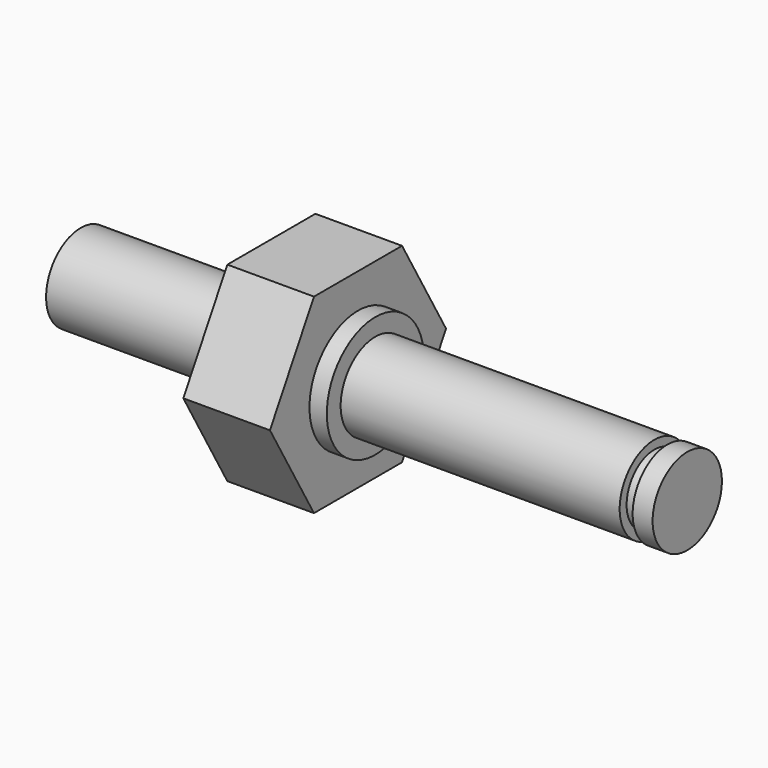
from build123d import *

# Parameters (mm, degrees)
F1_DEPTH = 10
F2_R     = 7
F3_DEPTH = 2
F4_R     = 5
F5_DEPTH = 36
F6_W     = 1.5
F6_H     = 1.416463
F8_R     = 5
F9_DEPTH = 22


with BuildPart() as f1:
    # F0 (on Right) → F1 (new body)
    with BuildSketch(Plane.YZ):
        Polygon((-6.350853, -11), (6.350853, -11), (12.701706, 0), (6.350853, 11), (-6.350853, 11), (-12.701706, 0), align=None)
    extrude(amount=-F1_DEPTH)

    # F2 (on face) → F3 (join)
    with BuildSketch(Plane.YZ):
        Circle(F2_R)
    extrude(amount=F3_DEPTH)

    # F4 (on face) → F5 (join)
    with BuildSketch(Plane.YZ.offset(2)):
        Circle(F4_R)
    extrude(amount=F5_DEPTH)

    # F6 (on Front) → F7 (revolve, cut)
    with BuildSketch(Plane.XZ):
        with Locations((34.95, -4.708232)):
            Rectangle(F6_W, F6_H)
    revolve(axis=Axis((38, 0, 0), (1, 0, 0)), mode=Mode.SUBTRACT)

    # F8 (on face) → F9 (join)
    with BuildSketch(Plane(origin=(-10, 0, 0), x_dir=(0, -1, 0), z_dir=(-1, 0, 0))):
        Circle(F8_R)
    extrude(amount=F9_DEPTH)


solid = f1.part
